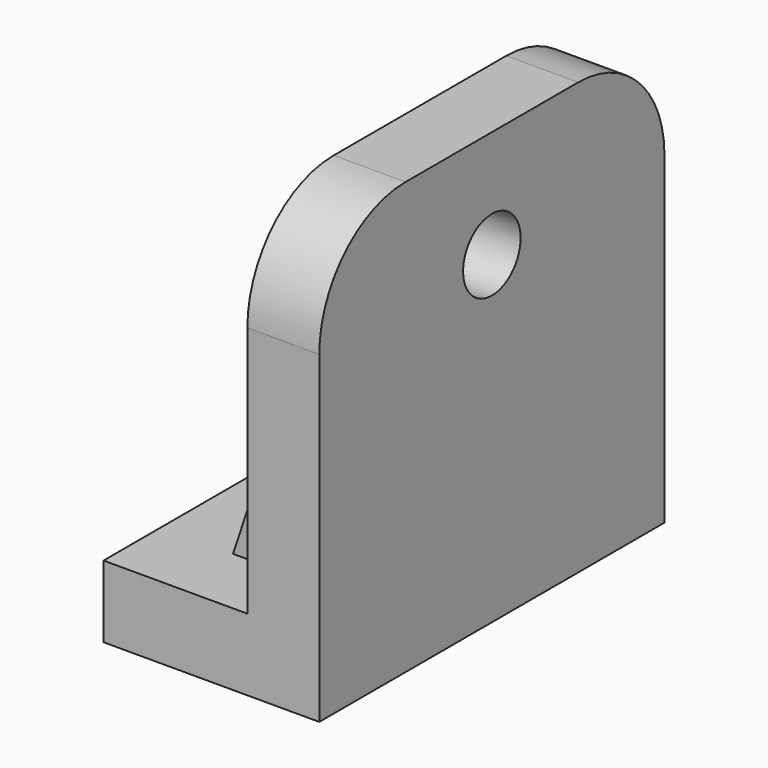
from build123d import *

# Parameters (mm, degrees)
F1_DEPTH  = 76.2
F2_R      = 12.7
F3_DEPTH  = 76.201
F5_DEPTH  = 25.401
F6_R      = 38.1
F7_R      = 19.05
F7_R_2    = 12.7
F8_DEPTH  = 6.35
F11_DEPTH = 6.35


with BuildPart() as f1:
    # F0 (on Front) → F1 (new body, symmetric)
    with BuildSketch(Plane.XZ):
        Polygon((-76.2, 0), (0, 0), (0, 152.4), (-25.4, 152.4), (-25.4, 25.4), (-76.2, 25.4), align=None)
    extrude(amount=F1_DEPTH, both=True)

    # F2 (on face) → F3 (cut, through all)
    with BuildSketch(Plane.YZ):
        with Locations((0, 114.3)):
            Circle(F2_R)
    extrude(amount=-F3_DEPTH, mode=Mode.SUBTRACT)

    # F4 (on face) → F5 (cut, through all)
    with BuildSketch(Plane.XY.offset(25.4)):
        with BuildLine():
            Line((-76.2, -12.7), (-63.5, -12.7))
            ThreePointArc((-63.5, -12.7), (-50.8, 0), (-63.5, 12.7))
            Line((-63.5, 12.7), (-76.2, 12.7))
            Line((-76.2, 12.7), (-76.2, -12.7))
        make_face()
    extrude(amount=-F5_DEPTH, mode=Mode.SUBTRACT)

    # F6
    f6_edges = [f1.edges().sort_by_distance(p)[0] for p in [
        (-12.7, -76.2, 152.4),
        (-12.7, 76.2, 152.4),
    ]]
    fillet(f6_edges, radius=F6_R)

    # F7 (on face) → F8 (cut)
    with BuildSketch(Plane(origin=(-25.4, 0, 0), x_dir=(0, -1, 0), z_dir=(-1, 0, 0))):
        with Locations((0, 114.3)):
            Circle(F7_R)
        with Locations((0, 114.3)):
            Circle(F7_R_2, mode=Mode.SUBTRACT)
    extrude(amount=-F8_DEPTH, mode=Mode.SUBTRACT)

    # F10 (on offset) → F11 (join, symmetric)
    with BuildSketch(Plane.XZ.offset(44.45)):
        Polygon((-50.8, 25.4), (-25.4, 25.4), (-25.4, 101.6), align=None)
    extrude(amount=F11_DEPTH, both=True)


solid = f1.part
